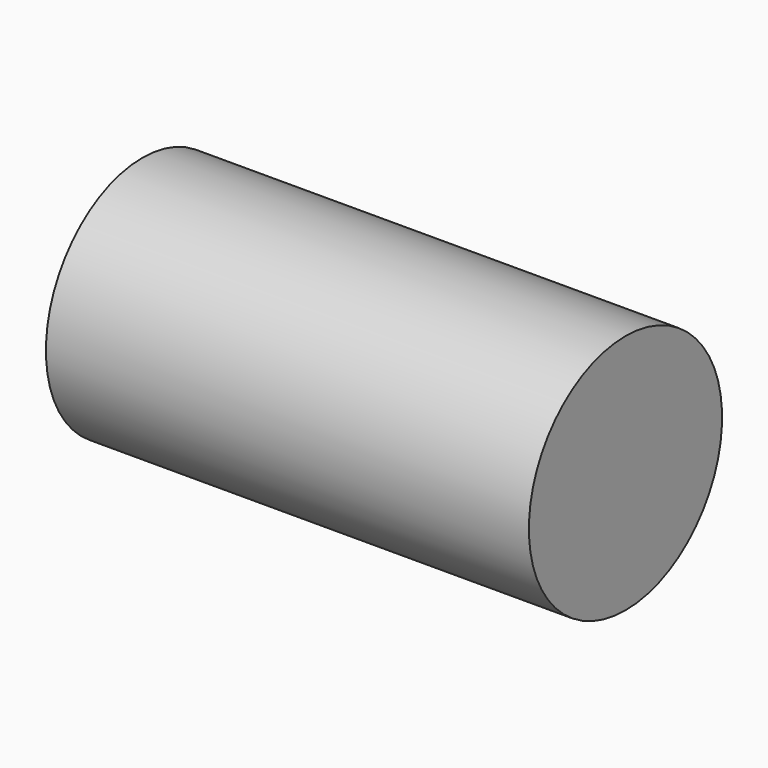
from build123d import *

# Parameters (mm, degrees)
F0_W   = 3
F0_H   = 1
F0_W_2 = 0.5


with BuildPart() as f1:
    # F0 (on Front) → F1 (revolve)
    with BuildSketch(Plane.XZ):
        with Locations((-1.5, 0.5)):
            Rectangle(F0_W, F0_H)
        with Locations((-3.25, 0.5)):
            Rectangle(F0_W_2, F0_H)
        with Locations((0.25, 0.5)):
            Rectangle(F0_W_2, F0_H)
    revolve(axis=Axis((-1.5, 0, 0), (-1, 0, 0)))


solid = f1.part
